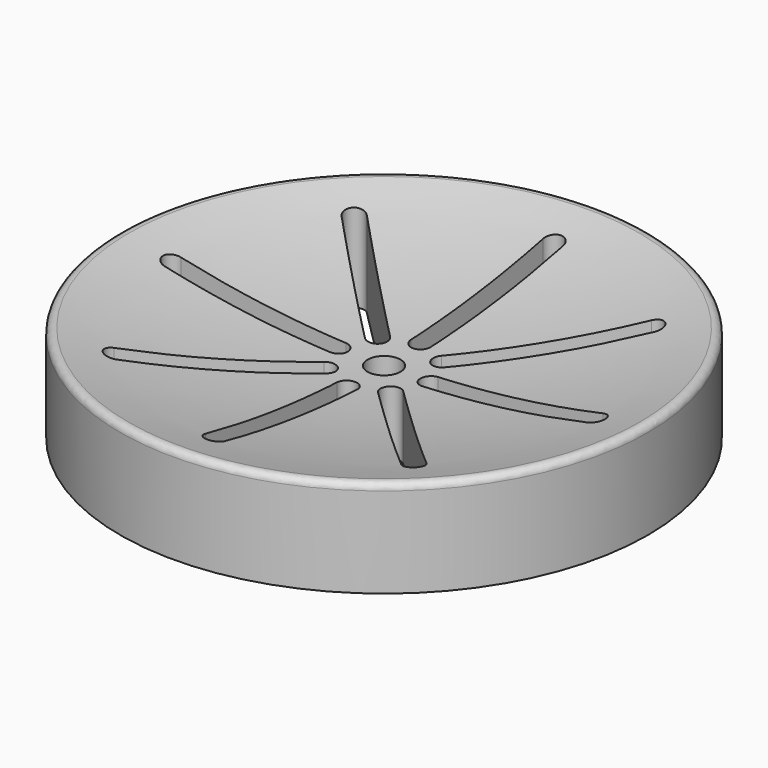
from build123d import *

# Parameters (mm, degrees)
F0_R     = 40
F1_DEPTH = 15
F4_R     = 1
F5_R     = 2.5
F6_DEPTH = 25


with BuildPart() as f1:
    # F0 (on Top) → F1 (new body)
    with BuildSketch(Plane.XY):
        Circle(F0_R)
    extrude(amount=F1_DEPTH)

    # F2 (on Front) → F3 (revolve, cut)
    with BuildSketch(Plane.XZ):
        with BuildLine():
            Line((0, 15), (0, 9.568323))
            ThreePointArc((0, 9.568323), (20.183552, 10.932445), (40, 15))
            Line((40, 15), (0, 15))
        make_face()
    revolve(axis=Axis((0, 0, 12.284161), (0, 0, -1)), mode=Mode.SUBTRACT)

    # F4
    f4_edges = [f1.edges().sort_by_distance(p)[0] for p in [
        (-40, 0, 15),
    ]]
    fillet(f4_edges, radius=F4_R)

    # F5 (on Top) → F6 (cut)
    with BuildSketch(Plane.XY):
        Circle(F5_R)
        with BuildLine():
            Line((-1.5, 32), (-1.5, 7))
            ThreePointArc((-1.5, 7), (0, 5.5), (1.5, 7))
            Line((1.5, 7), (1.5, 32))
            ThreePointArc((1.5, 32), (0, 33.5), (-1.5, 32))
        make_face()
        with BuildLine():
            Line((-3.889087, 6.010408), (-21.566757, 23.688077))
            ThreePointArc((-21.566757, 23.688077), (-23.688077, 23.688077), (-23.688077, 21.566757))
            Line((-23.688077, 21.566757), (-6.010408, 3.889087))
            ThreePointArc((-6.010408, 3.889087), (-3.889087, 3.889087), (-3.889087, 6.010408))
        make_face()
        with BuildLine():
            Line((-7, 1.5), (-32, 1.5))
            ThreePointArc((-32, 1.5), (-33.5, 0), (-32, -1.5))
            Line((-32, -1.5), (-7, -1.5))
            ThreePointArc((-7, -1.5), (-5.5, 0), (-7, 1.5))
        make_face()
        with BuildLine():
            Line((-6.010408, -3.889087), (-23.688077, -21.566757))
            ThreePointArc((-23.688077, -21.566757), (-23.688077, -23.688077), (-21.566757, -23.688077))
            Line((-21.566757, -23.688077), (-3.889087, -6.010408))
            ThreePointArc((-3.889087, -6.010408), (-3.889087, -3.889087), (-6.010408, -3.889087))
        make_face()
        with BuildLine():
            Line((-1.5, -7), (-1.5, -32))
            ThreePointArc((-1.5, -32), (0, -33.5), (1.5, -32))
            Line((1.5, -32), (1.5, -7))
            ThreePointArc((1.5, -7), (0, -5.5), (-1.5, -7))
        make_face()
        with BuildLine():
            Line((3.889087, -6.010408), (21.566757, -23.688077))
            ThreePointArc((21.566757, -23.688077), (23.688077, -23.688077), (23.688077, -21.566757))
            Line((23.688077, -21.566757), (6.010408, -3.889087))
            ThreePointArc((6.010408, -3.889087), (3.889087, -3.889087), (3.889087, -6.010408))
        make_face()
        with BuildLine():
            Line((7, -1.5), (32, -1.5))
            ThreePointArc((32, -1.5), (33.5, 0), (32, 1.5))
            Line((32, 1.5), (7, 1.5))
            ThreePointArc((7, 1.5), (5.5, 0), (7, -1.5))
        make_face()
        with BuildLine():
            Line((6.010408, 3.889087), (23.688077, 21.566757))
            ThreePointArc((23.688077, 21.566757), (23.688077, 23.688077), (21.566757, 23.688077))
            Line((21.566757, 23.688077), (3.889087, 6.010408))
            ThreePointArc((3.889087, 6.010408), (3.889087, 3.889087), (6.010408, 3.889087))
        make_face()
    extrude(amount=F6_DEPTH, mode=Mode.SUBTRACT)


solid = f1.part
